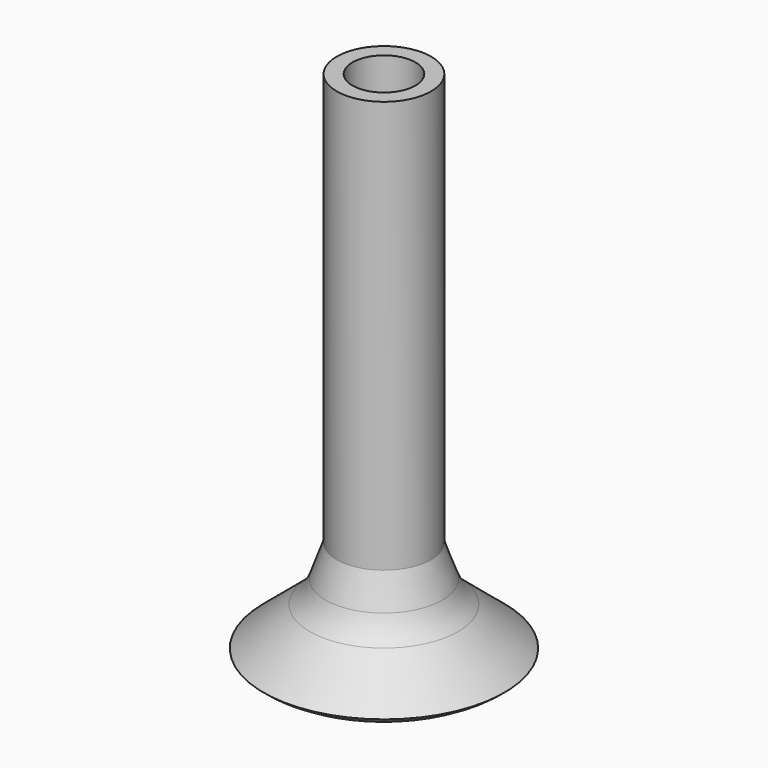
from build123d import *

# Parameters (mm, degrees)
F2_T = -0.9


with BuildPart() as f1:
    # F0 (on Front) → F1 (revolve)
    with BuildSketch(Plane.XZ):
        with BuildLine():
            Line((-4.2778253336, 0), (0, 0))
            Line((0, 0), (0, 30))
            Line((0, 30), (-2.7065660749, 30))
            Line((-2.7065660749, 30), (-2.7065660749, 6.3329207692))
            Line((-2.7065660749, 6.3329207692), (-3.3541182942, 4.5065977652))
            ThreePointArc((-3.3541182942, 4.5065977652), (-3.7186831825, 3.7963022764), (-4.2576879101, 3.2073191334))
            Line((-4.2576879101, 3.2073191334), (-6.9113620557, 0.9892717935))
            ThreePointArc((-6.9113620557, 0.9892717935), (-5.6844324525, 0.2554764772), (-4.2778253336, 0))
        make_face()
    revolve(axis=Axis((0, 0, 15), (0, 0, 1)))

    # F2
    f2_openings = [f1.faces().sort_by_distance(p)[0] for p in [
        (0, 0, 30),
    ]]
    offset(amount=F2_T, openings=f2_openings, kind=Kind.INTERSECTION)


solid = f1.part
